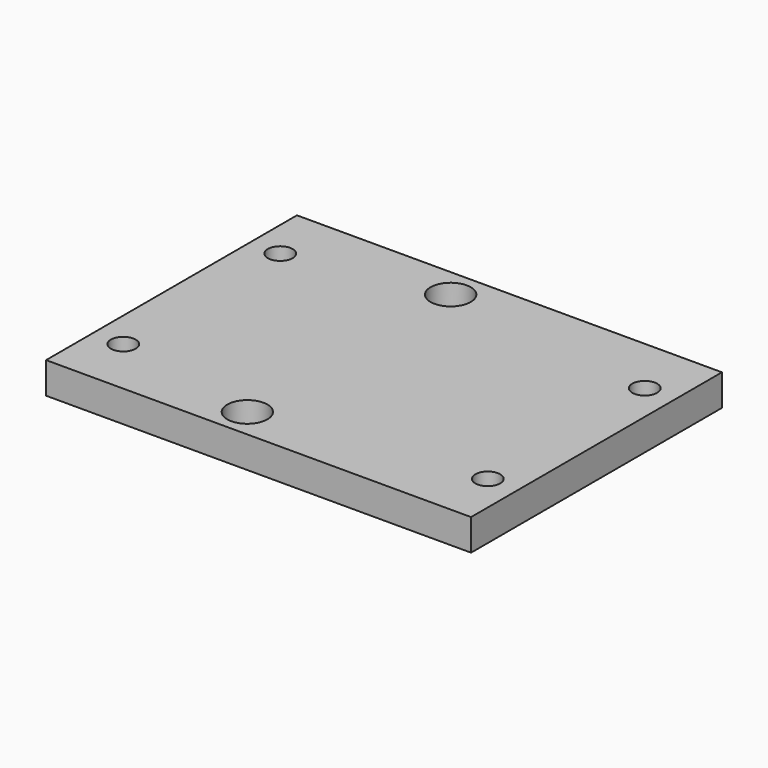
from build123d import *

# Parameters (mm, degrees)
F0_W     = 21.5138
F0_H     = 15.875
F0_R     = 1.2573
F0_R_2   = 2.032
F1_DEPTH = 3.175


with BuildPart() as f1:
    # F0 (on Top) → F1 (new body)
    with BuildSketch(Plane.XY):
        with Locations((-10.7569, 7.9375)):
            Rectangle(F0_W, F0_H)
        with Locations((-18.4531, 9.9314)):
            Circle(F0_R, mode=Mode.SUBTRACT)
        with Locations((-3.5433, 12.8651)):
            Circle(F0_R_2, mode=Mode.SUBTRACT)
        with Locations((-10.7569, -7.9375)):
            Rectangle(F0_W, F0_H)
        with Locations((-18.4531, -9.9314)):
            Circle(F0_R, mode=Mode.SUBTRACT)
        with Locations((-3.5433, -12.8651)):
            Circle(F0_R_2, mode=Mode.SUBTRACT)
        with Locations((10.7569, -7.9375)):
            Rectangle(F0_W, F0_H)
        with Locations((18.4531, -9.9314)):
            Circle(F0_R, mode=Mode.SUBTRACT)
        with Locations((10.7569, 7.9375)):
            Rectangle(F0_W, F0_H)
        with Locations((18.4531, 9.9314)):
            Circle(F0_R, mode=Mode.SUBTRACT)
    extrude(amount=F1_DEPTH)


solid = f1.part
